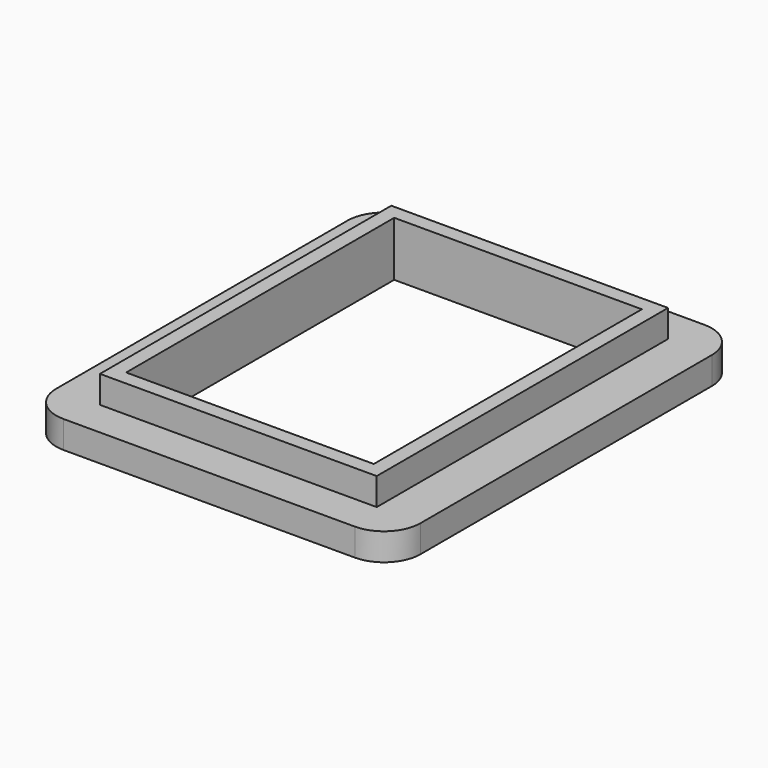
from build123d import *

# Parameters (mm, degrees)
F0_W     = 10
F0_H     = 12
F0_W_2   = 7.6
F0_H_2   = 10
F1_DEPTH = 0.75
F0_W_3   = 6.8
F0_H_3   = 9.2
F2_DEPTH = 1.5
F3_R     = 1


with BuildPart() as f1:
    # F0 (on Top) → F1 (new body)
    with BuildSketch(Plane.XY):
        Rectangle(F0_W, F0_H)
        Rectangle(F0_W_2, F0_H_2, mode=Mode.SUBTRACT)
    extrude(amount=F1_DEPTH)

    # F0 (on Top) → F2 (join)
    with BuildSketch(Plane.XY):
        Rectangle(F0_W_2, F0_H_2)
        Rectangle(F0_W_3, F0_H_3, mode=Mode.SUBTRACT)
    extrude(amount=F2_DEPTH)

    # F3
    f3_edges = [f1.edges().sort_by_distance(p)[0] for p in [
        (5, 6, 0.375),
        (-5, 6, 0.375),
        (-5, -6, 0.375),
        (5, -6, 0.375),
    ]]
    fillet(f3_edges, radius=F3_R)


solid = f1.part
